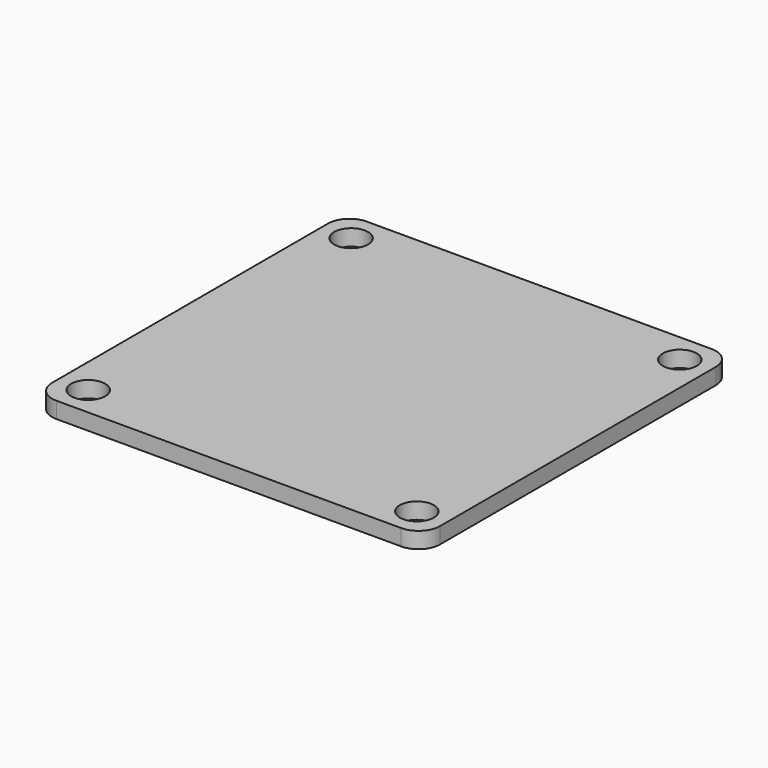
from build123d import *

# Parameters (mm, degrees)
F1_DEPTH = 1.5
F2_D     = 3.15


with BuildPart() as f1:
    # F0 (on Top) → F1 (new body)
    with BuildSketch(Plane.XY):
        with BuildLine():
            ThreePointArc((18, 16), (17.4142135624, 17.4142135624), (16, 18))
            Line((16, 18), (-16, 18))
            ThreePointArc((-16, 18), (-17.4142135624, 17.4142135624), (-18, 16))
            Line((-18, 16), (-18, -16))
            ThreePointArc((-18, -16), (-17.4142135624, -17.4142135624), (-16, -18))
            Line((-16, -18), (16, -18))
            ThreePointArc((16, -18), (17.4142135624, -17.4142135624), (18, -16))
            Line((18, -16), (18, 16))
        make_face()
    extrude(amount=F1_DEPTH)

    # F2 (through all)
    with Locations(Plane(origin=(0, 0, 0), x_dir=(1, 0, 0), z_dir=(0, 0, -1))):
        with Locations((-15.25, -15.25), (-15.25, 15.25), (15.25, 15.25), (15.25, -15.25)):
            Hole(F2_D / 2)


solid = f1.part
